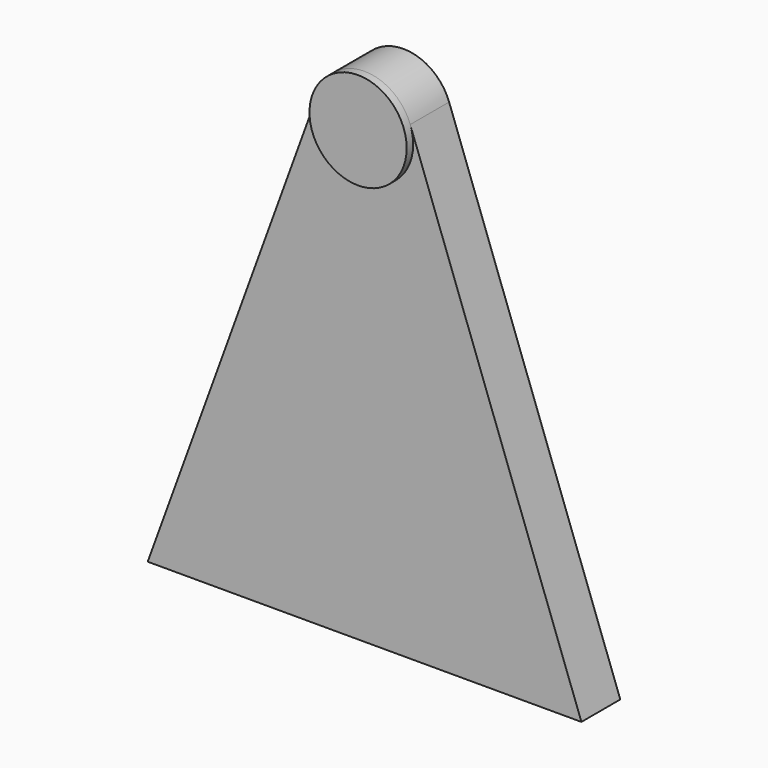
from build123d import *

# Parameters (mm, degrees)
F1_DEPTH = 9.525
F2_R     = 9.525
F3_DEPTH = 1.5875


with BuildPart() as f1:
    # F0 (on Front) → F1 (new body)
    with BuildSketch(Plane.XZ):
        with BuildLine():
            Line((42.493247, -88.9), (8.950572, 3.257742))
            ThreePointArc((8.950572, 3.257742), (0, 9.525), (-8.950572, 3.257742))
            Line((-8.950572, 3.257742), (-42.493247, -88.9))
            Line((-42.493247, -88.9), (0, -88.9))
            Line((0, -88.9), (42.493247, -88.9))
        make_face()
    extrude(amount=F1_DEPTH)

    # F2 (on face) → F3 (join)
    with BuildSketch(Plane.XZ.offset(9.525)):
        Circle(F2_R)
    extrude(amount=F3_DEPTH)


solid = f1.part
